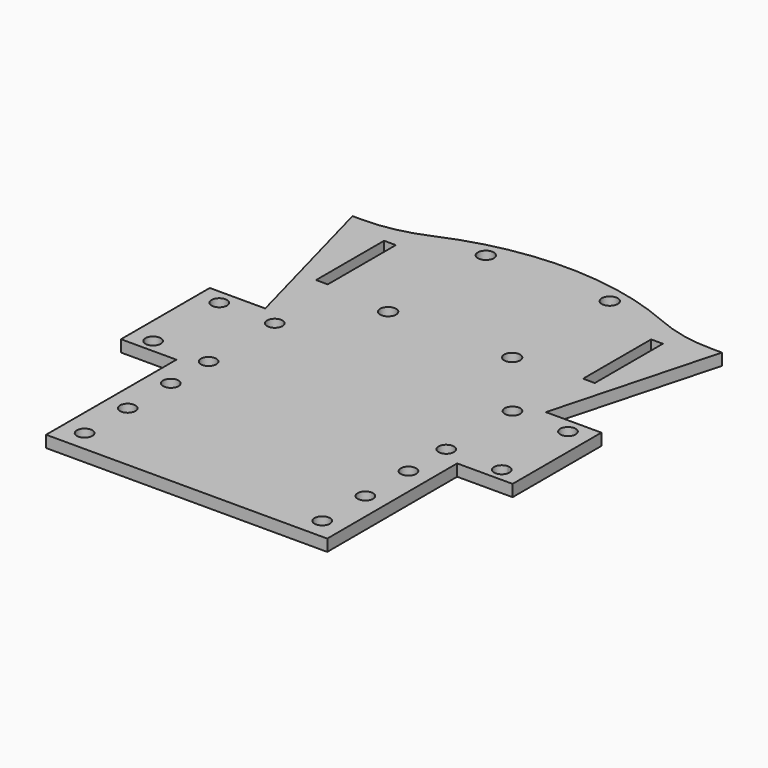
from build123d import *

# Parameters (mm, degrees)
F0_R     = 2.085
F0_R_2   = 2.15
F0_W     = 3.175
F0_H     = 23
F1_DEPTH = 3.175


with BuildPart() as f1:
    # F0 (on Top) → F1 (new body)
    with BuildSketch(Plane.XY):
        with BuildLine():
            Line((-38, -41.9637251374), (0, -41.9637251374))
            Line((0, -41.9637251374), (38, -41.9637251374))
            Line((38, -41.9637251374), (37.9384113545, 1.9986380357))
            Line((37.9384113545, 1.9986380357), (52.9251351953, 1.9986380357))
            Line((52.9251351953, 1.9986380357), (52.9251351953, 31.9986380357))
            Line((52.9251351953, 31.9986380357), (37.9251351953, 31.9986380357))
            Line((37.9251351953, 31.9986380357), (49.9251351953, 76.4752441225))
            Line((49.9251351953, 76.4752441225), (47.2431264601, 76.4752441225))
            ThreePointArc((47.2431264601, 76.4752441225), (39.0233041791, 77.3289221795), (31.1543359938, 79.8535180391))
            ThreePointArc((31.1543359938, 79.8535180391), (0, 86.3952080993), (-31.1543359938, 79.8535180391))
            ThreePointArc((-31.1543359938, 79.8535180391), (-39.0233041791, 77.3289221795), (-47.2431264601, 76.4752441225))
            Line((-47.2431264601, 76.4752441225), (-49.9251351953, 76.4752441225))
            Line((-49.9251351953, 76.4752441225), (-37.9251351953, 31.9986380357))
            Line((-37.9251351953, 31.9986380357), (-52.9251351953, 31.9986380357))
            Line((-52.9251351953, 31.9986380357), (-52.9251351953, 1.9986380357))
            Line((-52.9251351953, 1.9986380357), (-37.9384113545, 1.9986380357))
            Line((-37.9384113545, 1.9986380357), (-38, -41.9637251374))
        make_face()
        with Locations((-32.1168240318, -36.3078415394)):
            Circle(F0_R, mode=Mode.SUBTRACT)
        with Locations((-32.1168240318, -21.7403415394)):
            Circle(F0_R, mode=Mode.SUBTRACT)
        with Locations((-47.1168240318, 5.6010650516)):
            Circle(F0_R, mode=Mode.SUBTRACT)
        with Locations((-32.1168240318, -7.1728415394)):
            Circle(F0_R, mode=Mode.SUBTRACT)
        with Locations((-32.1168240318, 5.6010650516)):
            Circle(F0_R, mode=Mode.SUBTRACT)
        with Locations((32.1168240318, -36.3078415394)):
            Circle(F0_R, mode=Mode.SUBTRACT)
        with Locations((32.1168240318, -21.7403415394)):
            Circle(F0_R, mode=Mode.SUBTRACT)
        with Locations((32.1168240318, -7.1728415394)):
            Circle(F0_R, mode=Mode.SUBTRACT)
        with Locations((32.1168240318, 5.6010650516)):
            Circle(F0_R, mode=Mode.SUBTRACT)
        with BuildLine():
            ThreePointArc((49.2018240318, 5.6010650516), (45.6425063931, 4.1267474129), (47.1168240318, 7.6860650516))
            ThreePointArc((47.1168240318, 7.6860650516), (48.5911416706, 7.0753826904), (49.2018240318, 5.6010650516))
        make_face(mode=Mode.SUBTRACT)
        with Locations((-47.1168240318, 27.9740650516)):
            Circle(F0_R, mode=Mode.SUBTRACT)
        with Locations((-32.1168240318, 27.9742324866)):
            Circle(F0_R, mode=Mode.SUBTRACT)
        with Locations((-16.75, 47.0501706004)):
            Circle(F0_R_2, mode=Mode.SUBTRACT)
        with Locations((-36.0875, 60.3372221589)):
            Rectangle(F0_W, F0_H, mode=Mode.SUBTRACT)
        with Locations((-16.75, 80.0501706004)):
            Circle(F0_R_2, mode=Mode.SUBTRACT)
        with Locations((16.75, 47.0501706004)):
            Circle(F0_R_2, mode=Mode.SUBTRACT)
        with Locations((32.1168240318, 27.9742324866)):
            Circle(F0_R, mode=Mode.SUBTRACT)
        with BuildLine():
            ThreePointArc((47.1168240318, 25.8890650516), (45.6425063931, 29.4483826904), (49.2018240318, 27.9740650516))
            ThreePointArc((49.2018240318, 27.9740650516), (48.5911416706, 26.4997474129), (47.1168240318, 25.8890650516))
        make_face(mode=Mode.SUBTRACT)
        with Locations((16.75, 80.0501706004)):
            Circle(F0_R_2, mode=Mode.SUBTRACT)
        with Locations((36.0875, 60.3372221589)):
            Rectangle(F0_W, F0_H, mode=Mode.SUBTRACT)
    extrude(amount=F1_DEPTH)


solid = f1.part
